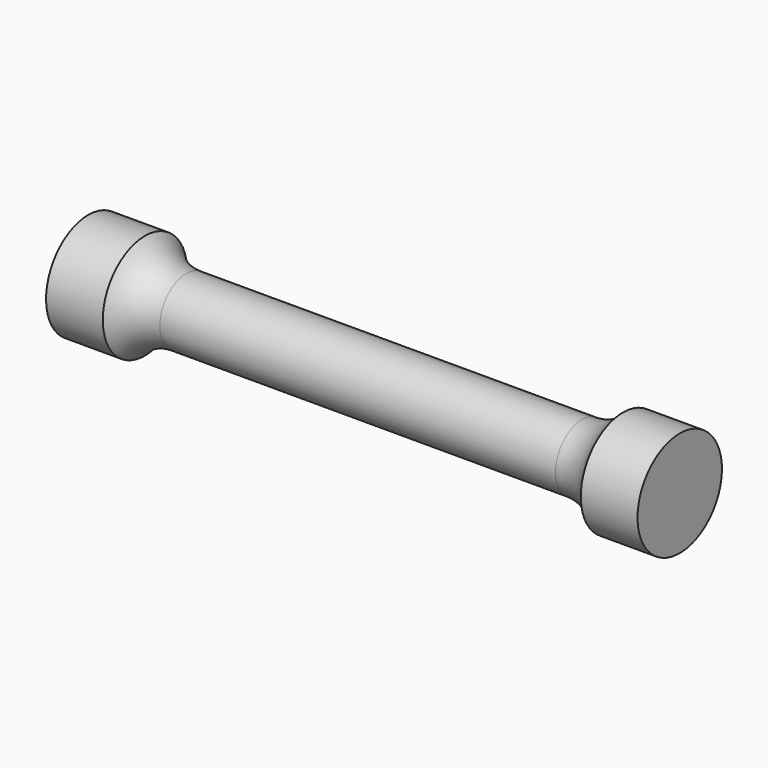
from build123d import *


with BuildPart() as f1:
    # F0 (on Front) → F1 (revolve)
    with BuildSketch(Plane.XZ):
        with BuildLine():
            Line((37.5, 6.25), (0, 6.25))
            Line((0, 6.25), (-37.5, 6.25))
            ThreePointArc((-37.5, 6.25), (-41.830127, 7.236122), (-45.306247, 10))
            Line((-45.306247, 10), (-56.057687, 10))
            Line((-56.057687, 10), (-56.057687, 0))
            Line((-56.057687, 0), (0, 0))
            Line((0, 0), (56.057687, 0))
            Line((56.057687, 0), (56.057687, 10))
            Line((56.057687, 10), (45.306247, 10))
            ThreePointArc((45.306247, 10), (41.830127, 7.236122), (37.5, 6.25))
        make_face()
    revolve(axis=Axis((-28.028843, 0, 0), (1, 0, 0)))


solid = f1.part
